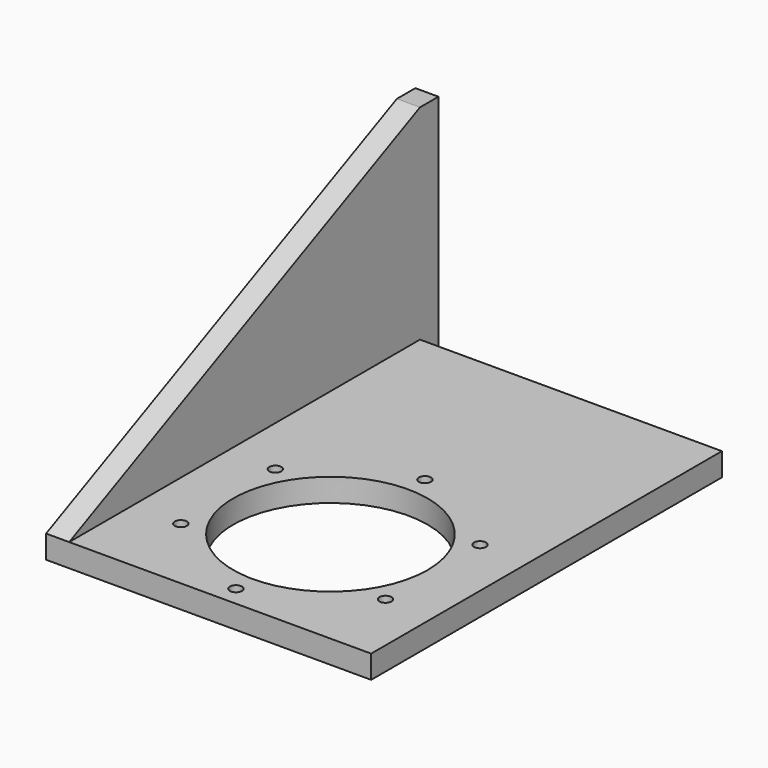
from build123d import *

# Parameters (mm, degrees)
F1_R     = 4.6
F1_R_2   = 74
F2_DEPTH = 17.6
F3_W     = 334
F3_H     = 17.6
F4_DEPTH = 17.6


with BuildPart() as f2:
    # F1 (on Top) → F2 (new body)
    with BuildSketch(Plane.XY):
        with BuildLine():
            ThreePointArc((115, 149.986666074), (0, 189), (-115, 149.986666074))
            Line((-115, 149.986666074), (-115, -105))
            Line((-115, -105), (1.932e-07, -105))
            Line((1.932e-07, -105), (115, -105))
            Line((115, -105), (115, 149.986666074))
        make_face()
        with BuildLine():
            ThreePointArc((105, 0), (74.2462120929, -74.2462119563), (1.932e-07, -105))
            ThreePointArc((1.932e-07, -105), (-74.2462120929, 74.2462119563), (105, 0))
        make_face(mode=Mode.SUBTRACT)
        with BuildLine():
            Line((115, 229), (-115, 229))
            Line((-115, 229), (-115, 149.986666074))
            ThreePointArc((-115, 149.986666074), (0, 189), (115, 149.986666074))
            Line((115, 149.986666074), (115, 229))
        make_face()
        with BuildLine():
            ThreePointArc((105, 0), (-74.2462120929, 74.2462119563), (1.932e-07, -105))
            ThreePointArc((1.932e-07, -105), (74.2462120929, -74.2462119563), (105, 0))
        make_face()
        with Locations((-77.9422863406, -45)):
            Circle(F1_R, mode=Mode.SUBTRACT)
        with Locations((0, -90)):
            Circle(F1_R, mode=Mode.SUBTRACT)
        with Locations((77.9422863406, -45)):
            Circle(F1_R, mode=Mode.SUBTRACT)
        Circle(F1_R_2, mode=Mode.SUBTRACT)
        with Locations((-77.9422863406, 45)):
            Circle(F1_R, mode=Mode.SUBTRACT)
        with Locations((77.9422863406, 45)):
            Circle(F1_R, mode=Mode.SUBTRACT)
        with Locations((0, 90)):
            Circle(F1_R, mode=Mode.SUBTRACT)
    extrude(amount=F2_DEPTH)

    # F3 (on face) → F4 (join)
    with BuildSketch(Plane(origin=(-115, 0, 0), x_dir=(0, -1, 0), z_dir=(-1, 0, 0))):
        Polygon((-229, 17.6), (105, 17.6), (-229, 173.3467578238), (-246.6, 173.3467578238), (-246.6, 0), (-229, 0), align=None)
        with Locations((-62, 8.8)):
            Rectangle(F3_W, F3_H)
    extrude(amount=F4_DEPTH)


solid = f2.part
